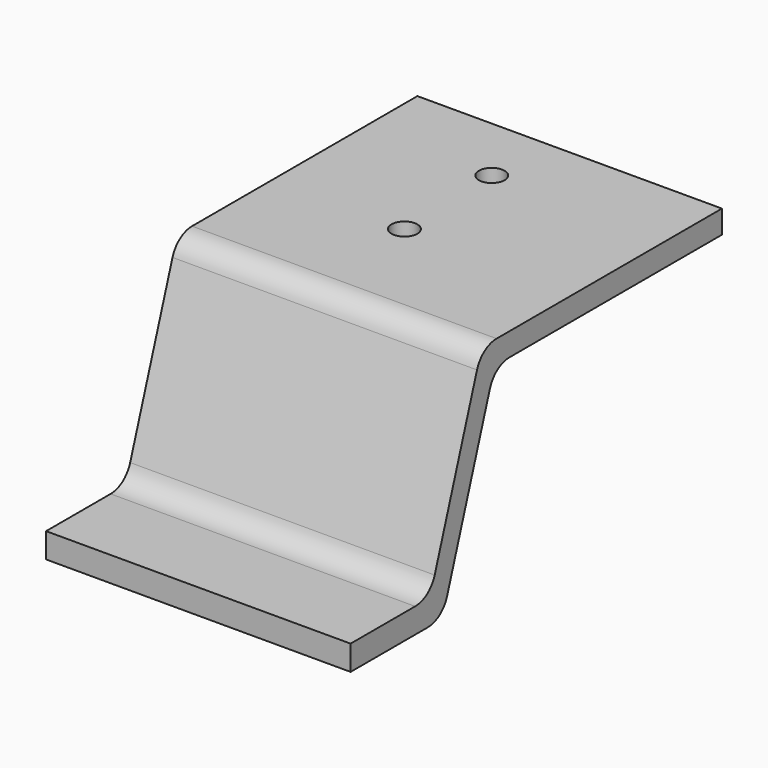
from build123d import *

# Parameters (mm, degrees)
F1_DEPTH = 75.184
F3_D     = 6.35


with BuildPart() as f1:
    # F0 (on Right) → F1 (new body)
    with BuildSketch(Plane.YZ):
        with BuildLine():
            Line((-55.348877, 6.152241), (-55.348877, 0))
            Line((-55.348877, 0), (-31.59725, 0))
            ThreePointArc((-31.59725, 0), (-27.882827, 1.199702), (-25.571933, 4.345491))
            Line((-25.571933, 4.345491), (-12.347498, 44.096582))
            ThreePointArc((-12.347498, 44.096582), (-10.036604, 47.242371), (-6.322181, 48.442073))
            Line((-6.322181, 48.442073), (59.249107, 48.442073))
            Line((59.249107, 48.442073), (59.249107, 54.129988))
            Line((59.249107, 54.129988), (-10.303723, 54.129988))
            ThreePointArc((-10.303723, 54.129988), (-14.018146, 52.930286), (-16.32904, 49.784497))
            Line((-16.32904, 49.784497), (-29.399002, 10.497732))
            ThreePointArc((-29.399002, 10.497732), (-31.709897, 7.351943), (-35.424319, 6.152241))
            Line((-35.424319, 6.152241), (-55.348877, 6.152241))
        make_face()
    extrude(amount=F1_DEPTH)

    # F3 (through all)
    with Locations(Plane.XY.offset(54.129988)):
        with Locations((31.894367, 42.322207), (32.730211, 14.339295), (79.772197, -91.813229)):
            Hole(F3_D / 2)


solid = f1.part
